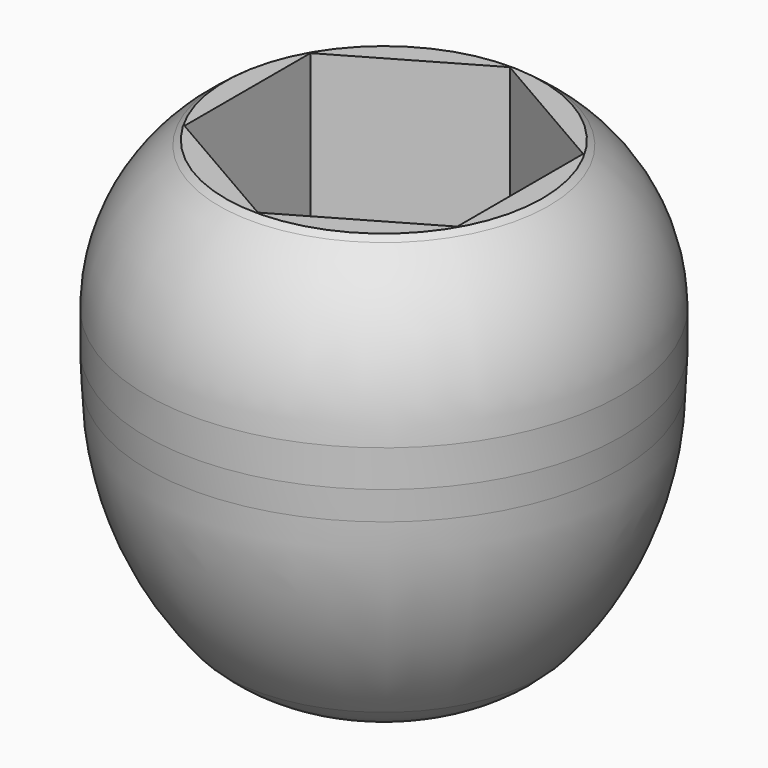
from build123d import *

# Parameters (mm, degrees)
F3_START = 7.5
F3_DEPTH = 22


with BuildPart() as f1:
    # F0 (on Front) → F1 (revolve)
    with BuildSketch(Plane.XZ):
        with BuildLine():
            Line((2, 11.5316165611), (2, 0.7860367186))
            Line((2, 0.7860367186), (3.0748690479, 0))
            Line((3.0748690479, 0), (3.9368423175, 0))
            ThreePointArc((3.9368423175, 0), (5.7359459969, 0.7500806425), (7.281170908, 1.9382199415))
            ThreePointArc((7.281170908, 1.9382199415), (9.9706026353, 6.4492878426), (10.9369686737, 11.6115463895))
            Line((10.9369686737, 11.6115463895), (11, 12.9668489195))
            Line((11, 12.9668489195), (11, 14.6680995822))
            ThreePointArc((11, 14.6680995822), (10.093794135, 18.3743867074), (7.6406770098, 21.2967127834))
            Line((7.6406770098, 21.2967127834), (7.3522413641, 21.5129035946))
            Line((7.3522413641, 21.5129035946), (7.1540363067, 21.5129035946))
            Line((7.1540363067, 21.5129035946), (5.7365642861, 21.5129035946))
            Line((5.7365642861, 21.5129035946), (5.7365642861, 20.6799935549))
            Line((5.7365642861, 20.6799935549), (5.7365642861, 16.6449104306))
            ThreePointArc((5.7365642861, 16.6449104306), (4.7986694118, 13.4083784884), (2, 11.5316165611))
        make_face()
    revolve(axis=Axis((0, 0, 8.1755573817), (0, 0, -1)))

    # F2 (on Top) → F3 (cut)
    with BuildSketch(Plane.XY.offset(F3_START)):
        Polygon((6.3219854476, 3.65), (0, 7.3), (-6.3219854476, 3.65), (-6.3219854476, -3.65), (0, -7.3), (6.3219854476, -3.65), align=None)
    extrude(amount=F3_DEPTH, mode=Mode.SUBTRACT)


solid = f1.part
